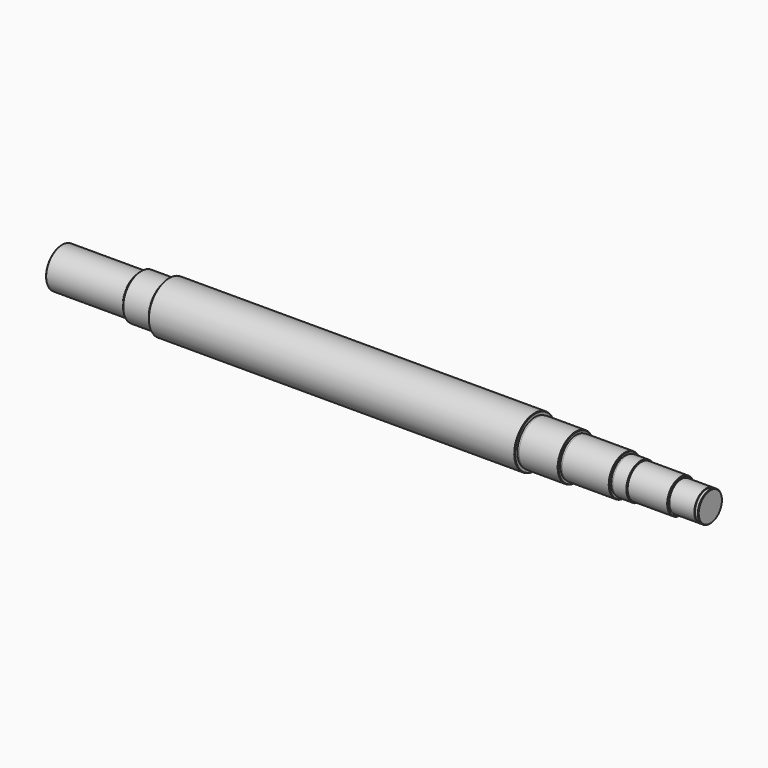
from build123d import *


with BuildPart() as f1:
    # F0 (on Front) → F1 (revolve)
    with BuildSketch(Plane.XZ):
        Polygon((-2750.421372, 3174.143106), (-2750.421372, 3212.243106), (-2763.121372, 3224.943106), (-3766.421372, 3224.943106), (-3766.421372, 3237.643106), (-3779.121372, 3250.343106), (-4024.762004, 3250.343106), (-4122.021372, 3250.343106), (-4122.021372, 3237.643106), (-4172.821372, 3237.643106), (-4172.821372, 3288.443106), (-4185.521372, 3301.143106), (-5366.621372, 3301.143106), (-5366.621372, 3293.523106), (-5417.421372, 3293.523106), (-5417.421372, 3351.943106), (-5430.121372, 3364.643106), (-6408.021372, 3364.643106), (-6408.021372, 3357.023106), (-6458.821372, 3357.023106), (-6458.821372, 3428.143106), (-6471.521372, 3440.843106), (-15742.521372, 3440.843106), (-15755.221372, 3428.143106), (-15755.221372, 3357.023106), (-15806.021372, 3357.023106), (-15806.021372, 3364.643106), (-15920.330542, 3364.643106), (-16453.721372, 3364.643106), (-16466.421372, 3351.943106), (-16466.421372, 3293.523106), (-16517.221372, 3293.523106), (-16517.221372, 3301.143106), (-18460.321372, 3301.143106), (-18473.021372, 3288.443106), (-18473.021372, 2793.143106), (-2013.821372, 2793.143106), (-2013.821372, 3161.443106), (-2026.521372, 3174.143106), (-2082.401372, 3174.143106), (-2082.401372, 3156.363106), (-2115.421372, 3156.363106), (-2115.421372, 3174.143106), align=None)
    revolve(axis=Axis((-10707.354472, 0, 2793.143106), (1, 0, 0)))


solid = f1.part
